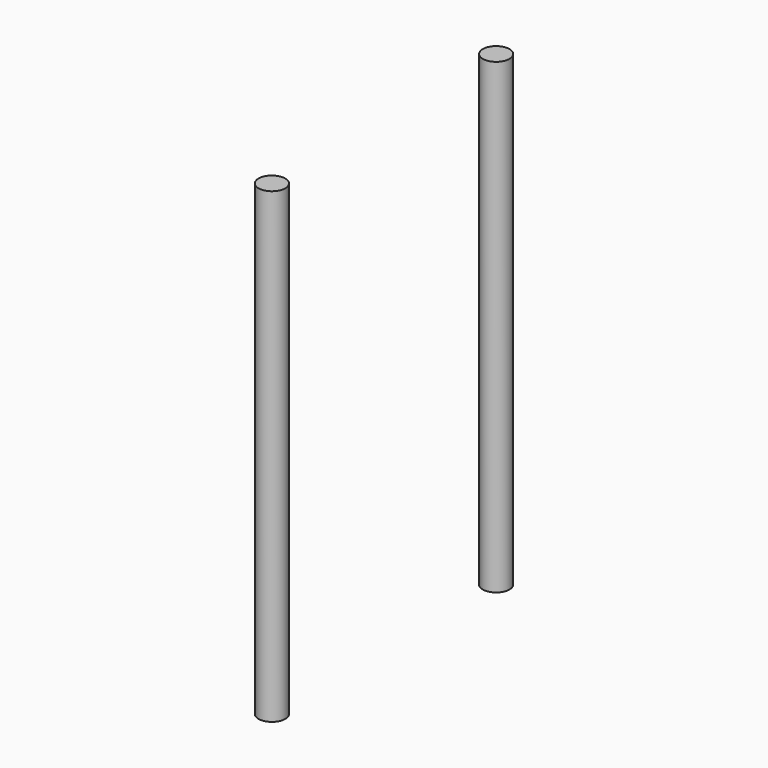
from build123d import *

# Parameters (mm, degrees)
CYLINDER362_R     = 2
CYLINDER362_DEPTH = 70
CYLINDER363_R     = 2
CYLINDER363_DEPTH = 70


with BuildPart() as cylinder362:
    # Cylinder362 → Cylinder362 (new body)
    with BuildSketch(Plane(origin=(-90, -103, -10), x_dir=(1, 0, 0), z_dir=(0, 0, 1))):
        Circle(CYLINDER362_R)
    extrude(amount=CYLINDER362_DEPTH)


with BuildPart() as fusion365:
    # Cylinder363 → Cylinder363 (new body)
    with BuildSketch(Plane(origin=(-90, -61, -10), x_dir=(1, 0, 0), z_dir=(0, 0, 1))):
        Circle(CYLINDER363_R)
    extrude(amount=CYLINDER363_DEPTH)

    # Fusion365: union Cylinder362
    add(cylinder362.part)


with BuildPart() as fusion365_1:
    # Fusion365 placement: moved
    add(fusion365.part.moved(Location((114, 0, 0))))


solid = fusion365_1.part
